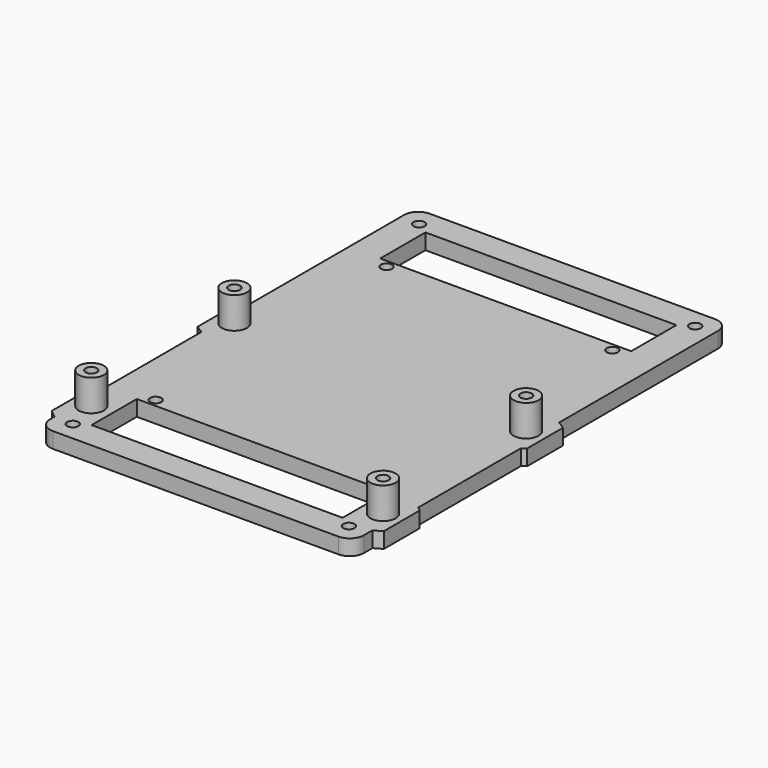
from build123d import *

# Parameters (mm, degrees)
F0_R     = 1.8
F0_W     = 80
F0_H     = 18
F1_DEPTH = 5
F2_R     = 4
F2_R_2   = 1.8
F3_DEPTH = 10


with BuildPart() as f1:
    # F0 (on Top) → F1 (new body)
    with BuildSketch(Plane.XY):
        with BuildLine():
            Line((-50.0234800036, -68.6468068202), (-50.0234800036, -70.5475468516))
            ThreePointArc((-50.0234800036, -70.5475468516), (-48.705460519, -73.7295273669), (-45.5234800036, -75.0475468516))
            Line((-45.5234800036, -75.0475468516), (45.5234800036, -75.0475468516))
            ThreePointArc((45.5234800036, -75.0475468516), (48.705460519, -73.7295273669), (50.0234800036, -70.5475468516))
            Line((50.0234800036, -70.5475468516), (50.0234800036, -67.1066886004))
            ThreePointArc((50.0234800036, -67.1066886004), (51.3336770397, -66.4451599276), (52.5234800036, -65.5857383981))
            Line((52.5234800036, -65.5857383981), (52.5234800036, -51.4142616019))
            ThreePointArc((52.5234800036, -51.4142616019), (51.9046419222, -50.9316550229), (51.2473189859, -50.5029403875))
            Line((51.2473189859, -50.5029403875), (51.2473189859, -9.4970596125))
            ThreePointArc((51.2473189859, -9.4970596125), (51.9046419222, -9.0683449771), (52.5234800036, -8.5857383981))
            Line((52.5234800036, -8.5857383981), (52.5234800036, 5.5857383981))
            ThreePointArc((52.5234800036, 5.5857383981), (51.3336770397, 6.4451599276), (50.0234800036, 7.1066886004))
            Line((50.0234800036, 7.1066886004), (50.0234800036, 70.5475468516))
            ThreePointArc((50.0234800036, 70.5475468516), (48.705460519, 73.7295273669), (45.5234800036, 75.0475468516))
            Line((45.5234800036, 75.0475468516), (-45.5234800036, 75.0475468516))
            ThreePointArc((-45.5234800036, 75.0475468516), (-48.705460519, 73.7295273669), (-50.0234800036, 70.5475468516))
            Line((-50.0234800036, 70.5475468516), (-50.0234800036, 7.1066886004))
            ThreePointArc((-50.0234800036, 7.1066886004), (-51.3336770397, 6.4451599276), (-52.5234800036, 5.5857383981))
            Line((-52.5234800036, 5.5857383981), (-52.5234800036, -8.5857383981))
            ThreePointArc((-52.5234800036, -8.5857383981), (-51.3336770397, -9.4451599276), (-50.0234800036, -10.1066886004))
            Line((-50.0234800036, -10.1066886004), (-50.0234800036, -48.3531931798))
            ThreePointArc((-50.0234800036, -48.3531931798), (-51.3409860595, -49.2614977581), (-52.5234800036, -50.3397127117))
            Line((-52.5234800036, -50.3397127117), (-52.5234800036, -66.6602872883))
            ThreePointArc((-52.5234800036, -66.6602872883), (-51.3409860595, -67.7385022419), (-50.0234800036, -68.6468068202))
        make_face()
        with Locations((-44, -69)):
            Circle(F0_R, mode=Mode.SUBTRACT)
        with Locations((-46.5, -58.5)):
            Circle(F0_R, mode=Mode.SUBTRACT)
        with Locations((-36, -46)):
            Circle(F0_R, mode=Mode.SUBTRACT)
        with Locations((-46.5, -1.5)):
            Circle(F0_R, mode=Mode.SUBTRACT)
        with Locations((0, -57.5)):
            Rectangle(F0_W, F0_H, mode=Mode.SUBTRACT)
        with Locations((44, -69)):
            Circle(F0_R, mode=Mode.SUBTRACT)
        with Locations((46.5, -58.5)):
            Circle(F0_R, mode=Mode.SUBTRACT)
        with Locations((36, -46)):
            Circle(F0_R, mode=Mode.SUBTRACT)
        with Locations((46.5, -1.5)):
            Circle(F0_R, mode=Mode.SUBTRACT)
        with Locations((-36, 46)):
            Circle(F0_R, mode=Mode.SUBTRACT)
        with Locations((-44, 69)):
            Circle(F0_R, mode=Mode.SUBTRACT)
        with Locations((0, 57.5)):
            Rectangle(F0_W, F0_H, mode=Mode.SUBTRACT)
        with Locations((36, 46)):
            Circle(F0_R, mode=Mode.SUBTRACT)
        with Locations((44, 69)):
            Circle(F0_R, mode=Mode.SUBTRACT)
    extrude(amount=F1_DEPTH)

    # F2 (on face) → F3 (join)
    with BuildSketch(Plane.XY.offset(5)):
        with Locations((46.5, -58.5)):
            Circle(F2_R)
        with Locations((46.5, -58.5)):
            Circle(F2_R_2, mode=Mode.SUBTRACT)
        with Locations((-46.5, -58.5)):
            Circle(F2_R)
        with Locations((-46.5, -58.5)):
            Circle(F2_R_2, mode=Mode.SUBTRACT)
        with Locations((-46.5, -1.5)):
            Circle(F2_R)
        with Locations((-46.5, -1.5)):
            Circle(F2_R_2, mode=Mode.SUBTRACT)
        with Locations((46.5, -1.5)):
            Circle(F2_R)
        with Locations((46.5, -1.5)):
            Circle(F2_R_2, mode=Mode.SUBTRACT)
    extrude(amount=F3_DEPTH)


solid = f1.part
